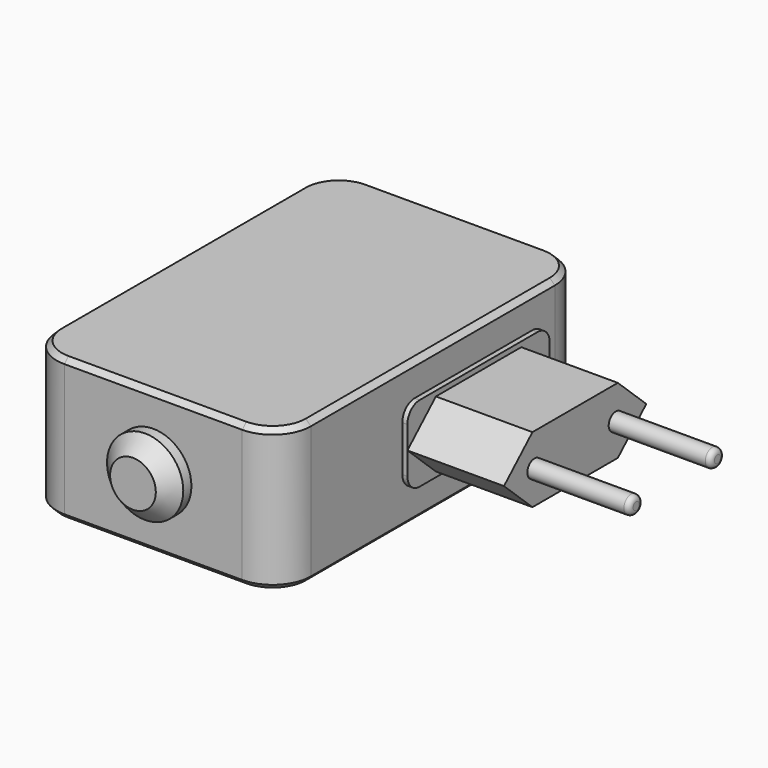
from build123d import *

# Parameters (mm, degrees)
SKETCH_W        = 50
SKETCH_H        = 75
PAD_DEPTH       = 14
FILLET_R        = 7.5
CHAMFER_SIZE    = 1
SKETCH001_W     = 35
SKETCH001_H     = 15
PAD001_DEPTH    = 1
FILLET001_R     = 3
PAD002_DEPTH    = 19
SKETCH003_R     = 1.75
PAD003_DEPTH    = 20
FILLET002_R     = 1
SKETCH004_R     = 7.5
PAD004_DEPTH    = 1.5
SKETCH005_R     = 7.5
PAD005_DEPTH    = 3.5
CHAMFER001_SIZE = 3


with BuildPart() as part:
    # Sketch → Pad (new body, symmetric)
    with BuildSketch(Plane.XY):
        Rectangle(SKETCH_W, SKETCH_H)
    extrude(amount=PAD_DEPTH, both=True)

    # Fillet
    fillet_edges = [part.edges().sort_by_distance(p)[0] for p in [
        (25, -37.5, 0),
        (-25, -37.5, 0),
        (25, 37.5, 0),
        (-25, 37.5, 0),
    ]]
    fillet(fillet_edges, radius=FILLET_R)

    # Chamfer
    chamfer_edges = [part.edges().sort_by_distance(p)[0] for p in [
        (0, 37.5, 14),
        (-22.803301, 35.303301, 14),
        (-25, 0, 14),
        (25, 0, 14),
        (22.803301, 35.303301, 14),
        (-22.803301, -35.303301, 14),
        (0, -37.5, 14),
        (22.803301, -35.303301, 14),
        (22.803301, -35.303301, -14),
        (0, -37.5, -14),
        (-22.803301, -35.303301, -14),
        (-25, 0, -14),
        (25, 0, -14),
        (22.803301, 35.303301, -14),
        (0, 37.5, -14),
        (-22.803301, 35.303301, -14),
    ]]
    chamfer(chamfer_edges, length=CHAMFER_SIZE)

    # Sketch001 (on Face13 of Chamfer) → Pad001 (join)
    with BuildSketch(Plane.YZ.offset(25)):
        with Locations((10, 0)):
            Rectangle(SKETCH001_W, SKETCH001_H)
    extrude(amount=PAD001_DEPTH)

    # Fillet001
    fillet001_edges = [part.edges().sort_by_distance(p)[0] for p in [
        (25.5, 27.5, 7.5),
        (25.5, 27.5, -7.5),
        (25.5, -7.5, -7.5),
        (25.5, -7.5, 7.5),
    ]]
    fillet(fillet001_edges, radius=FILLET001_R)

    # Sketch002 (on Face14 of Fillet001) → Pad002 (join)
    with BuildSketch(Plane.YZ.offset(26)):
        Polygon((27.5, 0), (20.5, 6.5), (-0.5, 6.5), (-7.5, 0), (-0.5, -6.5), (20.5, -6.5), align=None)
    extrude(amount=PAD002_DEPTH)

    # Sketch003 (on Face42 of Pad002) → Pad003 (join)
    with BuildSketch(Plane.YZ.offset(45)):
        Circle(SKETCH003_R)
        with Locations((20, 0)):
            Circle(SKETCH003_R)
    extrude(amount=PAD003_DEPTH)

    # Fillet002
    fillet002_edges = [part.edges().sort_by_distance(p)[0] for p in [
        (65, -1.75, 0),
        (65, 18.25, 0),
    ]]
    fillet(fillet002_edges, radius=FILLET002_R)

    # Sketch004 (on Face36 of Fillet002) → Pad004 (join)
    with BuildSketch(Plane.XZ.offset(37.5)):
        Circle(SKETCH004_R)
    extrude(amount=PAD004_DEPTH)

    # Sketch005 (on Face51 of Pad004) → Pad005 (join)
    with BuildSketch(Plane.XZ.offset(39)):
        Circle(SKETCH005_R)
    extrude(amount=PAD005_DEPTH)

    # Chamfer001
    chamfer001_edges = [part.edges().sort_by_distance(p)[0] for p in [
        (-7.5, -42.5, 0),
    ]]
    chamfer(chamfer001_edges, length=CHAMFER001_SIZE)


solid = part.part
